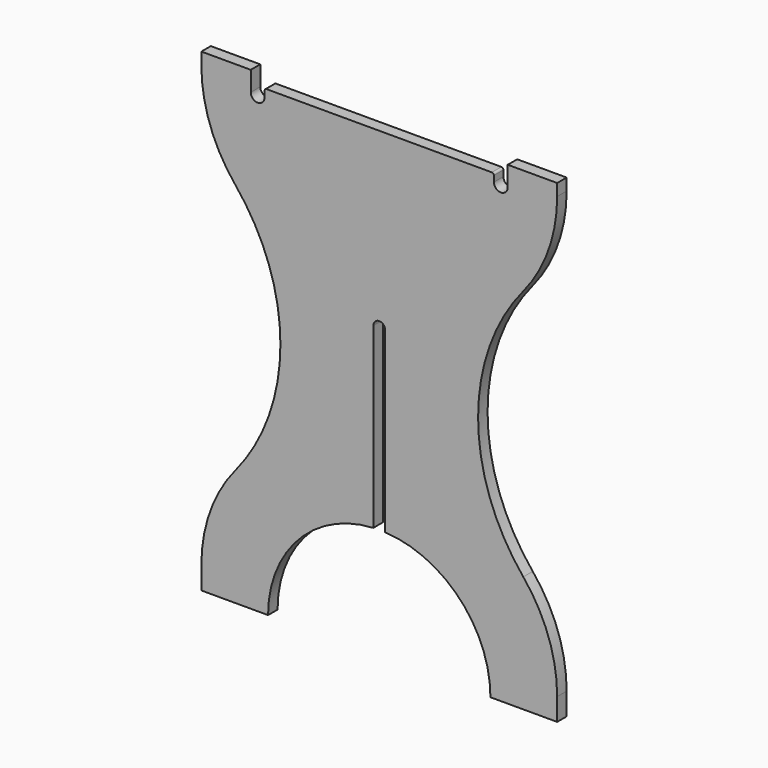
from build123d import *

# Parameters (mm, degrees)
F1_DEPTH = 12


with BuildPart() as f1:
    # F0 (on Front) → F1 (new body)
    with BuildSketch(Plane.XZ):
        with BuildLine():
            Line((-180, -217.421149), (-180, -240))
            Line((-180, -240), (-112.5, -240))
            ThreePointArc((-112.5, -240), (-81.643279, -162.600872), (-6, -127.660114))
            Line((-6, -127.660114), (-6, 52.5))
            ThreePointArc((-6, 52.5), (0, 58.5), (6, 52.5))
            Line((6, 52.5), (6, -127.660114))
            ThreePointArc((6, -127.660114), (81.643279, -162.600872), (112.5, -240))
            Line((112.5, -240), (180, -240))
            Line((180, -240), (180, -217.421149))
            ThreePointArc((180, -217.421149), (171.168592, -166.711894), (145.714286, -121.97376))
            ThreePointArc((145.714286, -121.97376), (100, 5.289425), (145.714286, 132.552611))
            ThreePointArc((145.714286, 132.552611), (171.168592, 177.290745), (180, 228))
            Line((180, 228), (180, 240))
            Line((180, 240), (130, 240))
            Line((130, 240), (130, 228))
            Line((130, 228), (130, 220))
            ThreePointArc((130, 220), (123, 213), (116, 220))
            Line((116, 220), (116, 226))
            ThreePointArc((116, 226), (115.414214, 227.414214), (114, 228))
            Line((114, 228), (-113.99243, 228))
            ThreePointArc((-113.99243, 228), (-115.405751, 227.415105), (-115.992428, 226.002523))
            Line((-115.992428, 226.002523), (-116, 220))
            ThreePointArc((-116, 220), (-123, 213), (-130, 220))
            Line((-130, 220), (-130, 228))
            Line((-130, 228), (-130, 240))
            Line((-130, 240), (-180, 240))
            Line((-180, 240), (-180, 228))
            ThreePointArc((-180, 228), (-171.168592, 177.290745), (-145.714286, 132.552611))
            ThreePointArc((-145.714286, 132.552611), (-100, 5.289425), (-145.714286, -121.97376))
            ThreePointArc((-145.714286, -121.97376), (-171.168592, -166.711894), (-180, -217.421149))
        make_face()
    extrude(amount=F1_DEPTH)


solid = f1.part
